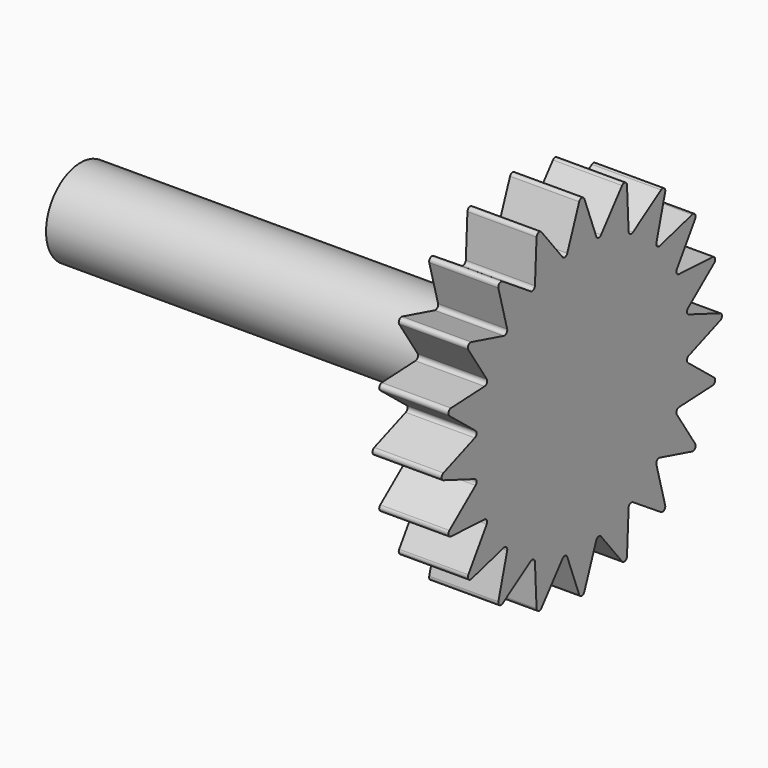
from build123d import *

# Parameters (mm, degrees)
F1_DEPTH = 4
F2_R     = 2.5
F3_DEPTH = 25


with BuildPart() as f1:
    # F0 (on Right) → F1 (new body)
    with BuildSketch(Plane.YZ):
        with BuildLine():
            ThreePointArc((0.186993, 10.007145), (0, 10.136198), (-0.186993, 10.007145))
            Line((-0.186993, 10.007145), (-1.049264, 7.734473))
            ThreePointArc((-1.049264, 7.734473), (-1.20497, 7.607883), (-1.392175, 7.680162))
            Line((-1.392175, 7.680162), (-2.914536, 9.575144))
            ThreePointArc((-2.914536, 9.575144), (-3.132257, 9.640097), (-3.270219, 9.459576))
            Line((-3.270219, 9.459576), (-3.387993, 7.031681))
            ThreePointArc((-3.387993, 7.031681), (-3.49696, 6.86317), (-3.697337, 6.874062))
            Line((-3.697337, 6.874062), (-5.730771, 8.205862))
            ThreePointArc((-5.730771, 8.205862), (-5.957908, 8.200356), (-6.033333, 7.986038))
            Line((-6.033333, 7.986038), (-5.395082, 5.640579))
            ThreePointArc((-5.395082, 5.640579), (-5.446643, 5.446643), (-5.640579, 5.395082))
            Line((-5.640579, 5.395082), (-7.986038, 6.033333))
            ThreePointArc((-7.986038, 6.033333), (-8.200356, 5.957908), (-8.205862, 5.730771))
            Line((-8.205862, 5.730771), (-6.874062, 3.697337))
            ThreePointArc((-6.874062, 3.697337), (-6.86317, 3.49696), (-7.031681, 3.387993))
            Line((-7.031681, 3.387993), (-9.459576, 3.270219))
            ThreePointArc((-9.459576, 3.270219), (-9.640097, 3.132257), (-9.575144, 2.914536))
            Line((-9.575144, 2.914536), (-7.680162, 1.392175))
            ThreePointArc((-7.680162, 1.392175), (-7.607883, 1.20497), (-7.734473, 1.049264))
            Line((-7.734473, 1.049264), (-10.007145, 0.186993))
            ThreePointArc((-10.007145, 0.186993), (-10.136198, 0), (-10.007145, -0.186993))
            Line((-10.007145, -0.186993), (-7.734473, -1.049264))
            ThreePointArc((-7.734473, -1.049264), (-7.607883, -1.20497), (-7.680162, -1.392175))
            Line((-7.680162, -1.392175), (-9.575144, -2.914536))
            ThreePointArc((-9.575144, -2.914536), (-9.640097, -3.132257), (-9.459576, -3.270219))
            Line((-9.459576, -3.270219), (-7.031681, -3.387993))
            ThreePointArc((-7.031681, -3.387993), (-6.86317, -3.49696), (-6.874062, -3.697337))
            Line((-6.874062, -3.697337), (-8.205862, -5.730771))
            ThreePointArc((-8.205862, -5.730771), (-8.200356, -5.957908), (-7.986038, -6.033333))
            Line((-7.986038, -6.033333), (-5.640579, -5.395082))
            ThreePointArc((-5.640579, -5.395082), (-5.446643, -5.446643), (-5.395082, -5.640579))
            Line((-5.395082, -5.640579), (-6.033333, -7.986038))
            ThreePointArc((-6.033333, -7.986038), (-5.957908, -8.200356), (-5.730771, -8.205862))
            Line((-5.730771, -8.205862), (-3.697337, -6.874062))
            ThreePointArc((-3.697337, -6.874062), (-3.49696, -6.86317), (-3.387993, -7.031681))
            Line((-3.387993, -7.031681), (-3.270219, -9.459576))
            ThreePointArc((-3.270219, -9.459576), (-3.132257, -9.640097), (-2.914536, -9.575144))
            Line((-2.914536, -9.575144), (-1.392175, -7.680162))
            ThreePointArc((-1.392175, -7.680162), (-1.20497, -7.607883), (-1.049264, -7.734473))
            Line((-1.049264, -7.734473), (-0.186993, -10.007145))
            ThreePointArc((-0.186993, -10.007145), (0, -10.136198), (0.186993, -10.007145))
            Line((0.186993, -10.007145), (1.049264, -7.734473))
            ThreePointArc((1.049264, -7.734473), (1.20497, -7.607883), (1.392175, -7.680162))
            Line((1.392175, -7.680162), (2.914536, -9.575144))
            ThreePointArc((2.914536, -9.575144), (3.132257, -9.640097), (3.270219, -9.459576))
            Line((3.270219, -9.459576), (3.387993, -7.031681))
            ThreePointArc((3.387993, -7.031681), (3.49696, -6.86317), (3.697337, -6.874062))
            Line((3.697337, -6.874062), (5.730771, -8.205862))
            ThreePointArc((5.730771, -8.205862), (5.957908, -8.200356), (6.033333, -7.986038))
            Line((6.033333, -7.986038), (5.395082, -5.640579))
            ThreePointArc((5.395082, -5.640579), (5.446643, -5.446643), (5.640579, -5.395082))
            Line((5.640579, -5.395082), (7.986038, -6.033333))
            ThreePointArc((7.986038, -6.033333), (8.200356, -5.957908), (8.205862, -5.730771))
            Line((8.205862, -5.730771), (6.874062, -3.697337))
            ThreePointArc((6.874062, -3.697337), (6.86317, -3.49696), (7.031681, -3.387993))
            Line((7.031681, -3.387993), (9.459576, -3.270219))
            ThreePointArc((9.459576, -3.270219), (9.640097, -3.132257), (9.575144, -2.914536))
            Line((9.575144, -2.914536), (7.680162, -1.392175))
            ThreePointArc((7.680162, -1.392175), (7.607883, -1.20497), (7.734473, -1.049264))
            Line((7.734473, -1.049264), (10.007145, -0.186993))
            ThreePointArc((10.007145, -0.186993), (10.136198, 0), (10.007145, 0.186993))
            Line((10.007145, 0.186993), (7.734473, 1.049264))
            ThreePointArc((7.734473, 1.049264), (7.607883, 1.20497), (7.680162, 1.392175))
            Line((7.680162, 1.392175), (9.575144, 2.914536))
            ThreePointArc((9.575144, 2.914536), (9.640097, 3.132257), (9.459576, 3.270219))
            Line((9.459576, 3.270219), (7.031681, 3.387993))
            ThreePointArc((7.031681, 3.387993), (6.86317, 3.49696), (6.874062, 3.697337))
            Line((6.874062, 3.697337), (8.205862, 5.730771))
            ThreePointArc((8.205862, 5.730771), (8.200356, 5.957908), (7.986038, 6.033333))
            Line((7.986038, 6.033333), (5.640579, 5.395082))
            ThreePointArc((5.640579, 5.395082), (5.446643, 5.446643), (5.395082, 5.640579))
            Line((5.395082, 5.640579), (6.033333, 7.986038))
            ThreePointArc((6.033333, 7.986038), (5.957908, 8.200356), (5.730771, 8.205862))
            Line((5.730771, 8.205862), (3.697337, 6.874062))
            ThreePointArc((3.697337, 6.874062), (3.49696, 6.86317), (3.387993, 7.031681))
            Line((3.387993, 7.031681), (3.270219, 9.459576))
            ThreePointArc((3.270219, 9.459576), (3.132257, 9.640097), (2.914536, 9.575144))
            Line((2.914536, 9.575144), (1.392175, 7.680162))
            ThreePointArc((1.392175, 7.680162), (1.20497, 7.607883), (1.049264, 7.734473))
            Line((1.049264, 7.734473), (0.186993, 10.007145))
        make_face()
    extrude(amount=F1_DEPTH)

    # F2 (on Right) → F3 (join)
    with BuildSketch(Plane.YZ):
        Circle(F2_R)
    extrude(amount=-F3_DEPTH)


solid = f1.part
